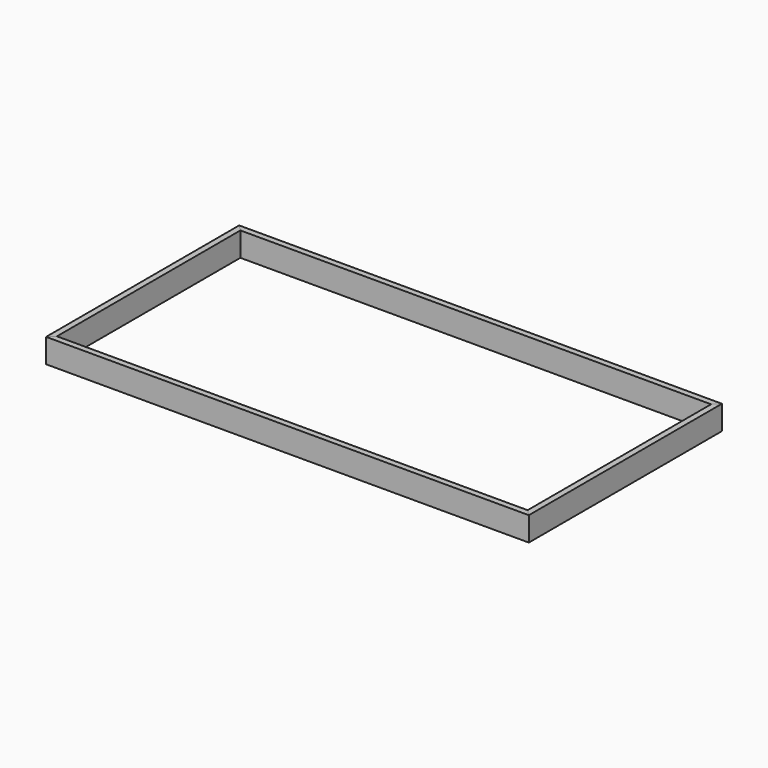
from build123d import *

# Parameters (mm, degrees)
F2_DEPTH = 76.2
F3_DEPTH = 76.2


with BuildPart() as f2:
    # F1 (on Top) → F2 (new body)
    with BuildSketch(Plane.XY):
        Polygon((-762, 381), (-762, -381), (-742.95, -361.95), (-742.95, 361.95), align=None)
    extrude(amount=-F2_DEPTH)


with BuildPart() as f3:
    # F1 (on Top) → F3 (new body)
    with BuildSketch(Plane.XY):
        Polygon((742.95, 361.95), (762, 381), (-762, 381), (-742.95, 361.95), align=None)
    extrude(amount=-F3_DEPTH)


with BuildPart() as f4_1:
    # F4: instance of F3
    add(f3.part.mirror(Plane.XZ))


with BuildPart() as f5_1:
    # F5: instance of F2
    add(f2.part.mirror(Plane.YZ))


solid = Compound([f2.part, f3.part, f4_1.part, f5_1.part])
